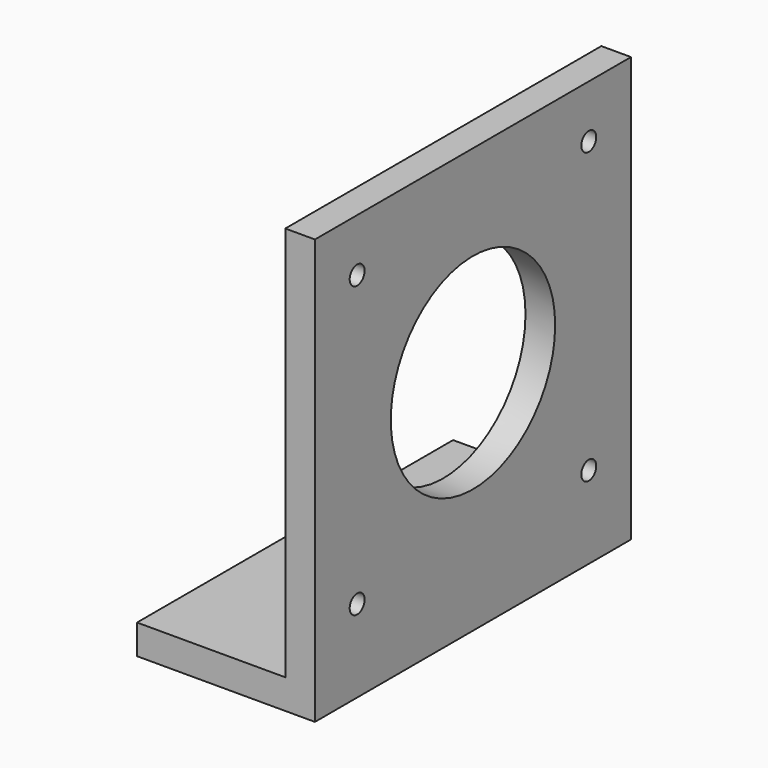
from build123d import *

# Parameters (mm, degrees)
F1_DEPTH = 42.3
F2_R     = 1
F2_R_2   = 11
F3_DEPTH = 3.176


with BuildPart() as f1:
    # F0 (on Front) → F1 (new body)
    with BuildSketch(Plane.XZ):
        Polygon((0, 42.3), (0, 0), (-15.875, 0), (-15.875, -3.175), (3.175, -3.175), (3.175, 42.3), align=None)
    extrude(amount=F1_DEPTH)

    # F2 (on Right) → F3 (cut, through all)
    with BuildSketch(Plane.YZ):
        with Locations((-36.65, 36.65)):
            Circle(F2_R)
        with Locations((-5.65, 36.65)):
            Circle(F2_R)
        with Locations((-5.65, 5.65)):
            Circle(F2_R)
        with Locations((-36.65, 5.65)):
            Circle(F2_R)
        with Locations((-21.15, 21.15)):
            Circle(F2_R_2)
    extrude(amount=F3_DEPTH, mode=Mode.SUBTRACT)


solid = f1.part
